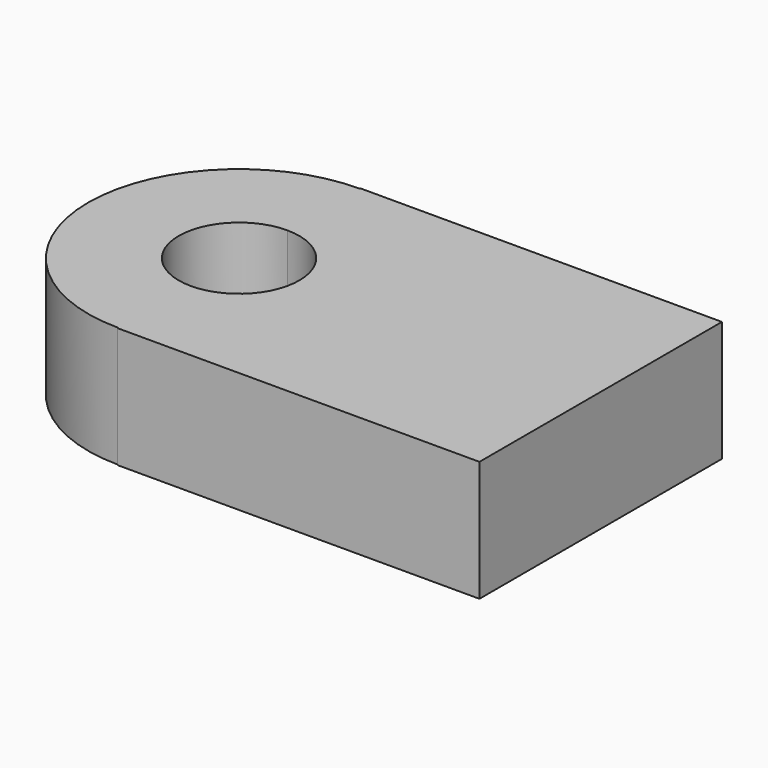
from build123d import *

# Parameters (mm, degrees)
F1_DEPTH = 25.4


with BuildPart() as f1:
    # F0 (on Top) → F1 (new body)
    with BuildSketch(Plane.XY):
        with BuildLine():
            Line((-38.2243149141, -21.479011897), (-38.2243149141, -21.6492902637))
            Line((-38.2243149141, -21.6492902637), (37.9756850859, -21.6492902637))
            Line((37.9756850859, -21.6492902637), (37.9756850859, 42.1912664697))
            Line((37.9756850859, 42.1912664697), (-38.2243149141, 42.1912664697))
            Line((-38.2243149141, 42.1912664697), (-38.2243149141, 42.020988103))
            ThreePointArc((-38.2243149141, 42.020988103), (-15.7736746115, 32.7216284057), (-6.4743149141, 10.270988103))
            ThreePointArc((-6.4743149141, 10.270988103), (-15.7736746115, -12.1796521997), (-38.2243149141, -21.479011897))
        make_face()
        with BuildLine():
            Line((-38.2243149141, -2.3951760908), (-38.2243149141, -21.479011897))
            ThreePointArc((-38.2243149141, -21.479011897), (-15.7736746115, -12.1796521997), (-6.4743149141, 10.270988103))
            ThreePointArc((-6.4743149141, 10.270988103), (-15.7736746115, 32.7216284057), (-38.2243149141, 42.020988103))
            Line((-38.2243149141, 42.020988103), (-38.2243149141, 23.0048239092))
            ThreePointArc((-38.2243149141, 23.0048239092), (-29.2440587931, 19.2850800303), (-25.5243149141, 10.3048239092))
            ThreePointArc((-25.5243149141, 10.3048239092), (-29.2440587931, 1.3245677882), (-38.2243149141, -2.3951760908))
        make_face()
        with BuildLine():
            ThreePointArc((-38.2243149141, 42.020988103), (-69.9743149141, 10.270988103), (-38.2243149141, -21.479011897))
            Line((-38.2243149141, -21.479011897), (-38.2243149141, -2.3951760908))
            ThreePointArc((-38.2243149141, -2.3951760908), (-50.9243149141, 10.3048239092), (-38.2243149141, 23.0048239092))
            Line((-38.2243149141, 23.0048239092), (-38.2243149141, 42.020988103))
        make_face()
    extrude(amount=F1_DEPTH)


solid = f1.part
